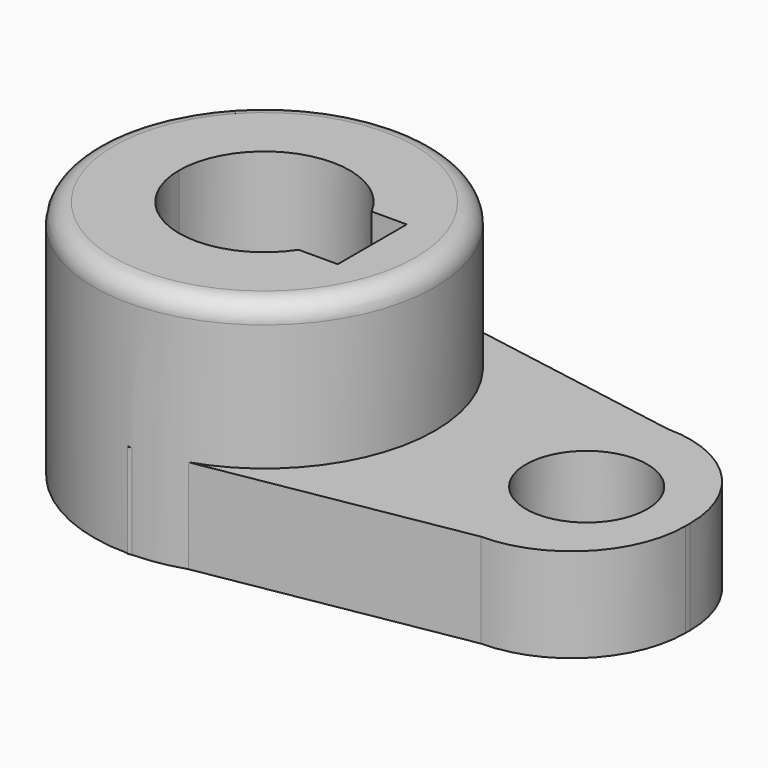
from build123d import *

# Parameters (mm, degrees)
F1_R     = 28.575
F2_DEPTH = 40.2336
F3_R     = 3.302
F4_DEPTH = 40.2336
F7_DEPTH = 15.7734
F5_R     = 10.16
F8_DEPTH = 25.4


with BuildPart() as f2:
    # F1 (on Top) → F2 (new body)
    with BuildSketch(Plane.XY):
        Circle(F1_R)
    extrude(amount=F2_DEPTH)

    # F3
    f3_edges = [f2.edges().sort_by_distance(p)[0] for p in [
        (-28.575, 0, 40.2336),
    ]]
    fillet(f3_edges, radius=F3_R)

    # F0 (on Top) → F4 (cut)
    with BuildSketch(Plane.XY):
        with BuildLine():
            Line((8.8773, 0), (14.2875, 0))
            ThreePointArc((14.2875, 0), (13.8739387677, 3.4126938508), (12.6571966832, 6.6278222948))
            Line((12.6571966832, 6.6278222948), (8.8773, 6.6278222948))
            Line((8.8773, 6.6278222948), (8.8773, 0))
        make_face()
        with BuildLine():
            Line((18.5293, 0), (14.2875, 0))
            ThreePointArc((14.2875, 0), (13.6943674733, -4.0739361504), (11.9642166044, -7.8096208163))
            Line((11.9642166044, -7.8096208163), (18.5293, -7.8096208163))
            Line((18.5293, -7.8096208163), (18.5293, 0))
        make_face()
        with BuildLine():
            ThreePointArc((12.6571966832, 6.6278222948), (13.8739387677, 3.4126938508), (14.2875, 0))
            Line((14.2875, 0), (18.5293, 0))
            Line((18.5293, 0), (18.5293, 6.6278222948))
            Line((18.5293, 6.6278222948), (12.6571966832, 6.6278222948))
        make_face()
        with BuildLine():
            ThreePointArc((11.9642166044, -7.8096208163), (13.6943674733, -4.0739361504), (14.2875, 0))
            Line((14.2875, 0), (8.8773, 0))
            Line((8.8773, 0), (8.8773, -7.8096208163))
            Line((8.8773, -7.8096208163), (11.9642166044, -7.8096208163))
        make_face()
        with BuildLine():
            Line((8.8773, 6.6278222948), (12.6571966832, 6.6278222948))
            ThreePointArc((12.6571966832, 6.6278222948), (-3.4126938508, 13.8739387677), (-14.2875, 0))
            Line((-14.2875, 0), (8.8773, 0))
            Line((8.8773, 0), (8.8773, 6.6278222948))
        make_face()
        with BuildLine():
            ThreePointArc((-14.2875, 0), (-4.0739361504, -13.6943674733), (11.9642166044, -7.8096208163))
            Line((11.9642166044, -7.8096208163), (8.8773, -7.8096208163))
            Line((8.8773, -7.8096208163), (8.8773, 0))
            Line((8.8773, 0), (-14.2875, 0))
        make_face()
    extrude(amount=F4_DEPTH, mode=Mode.SUBTRACT)

    # F6 (on Top) → F7 (join)
    with BuildSketch(Plane.XY):
        Polygon((36.9937829673, -19.6861159056), (36.9937829673, 19.4048862904), (51.9836863995, 19.4048862904), (0, 28.4042526037), (21.5210951865, 10.1242884994), (21.5210951865, -8.7181376293), (0, -28.6854840815), (51.9836863995, -19.6861159056), align=None)
        with BuildLine():
            Line((51.9836863995, 19.4048862904), (36.9937829673, 19.4048862904))
            Line((36.9937829673, 19.4048862904), (36.9937829673, -19.6861159056))
            Line((36.9937829673, -19.6861159056), (51.9836863995, -19.6861159056))
            ThreePointArc((51.9836863995, -19.6861159056), (65.4540705811, -14.1065000872), (71.0336863995, -0.6361159056))
            Line((71.0336863995, -0.6361159056), (71.0336863995, 0.3548862904))
            ThreePointArc((71.0336863995, 0.3548862904), (65.4540705811, 13.825270472), (51.9836863995, 19.4048862904))
        make_face()
    extrude(amount=F7_DEPTH)

    # F5 (on Top) → F8 (cut)
    with BuildSketch(Plane.XY):
        with Locations((53.975, 0)):
            Circle(F5_R)
    extrude(amount=F8_DEPTH, mode=Mode.SUBTRACT)


solid = f2.part
